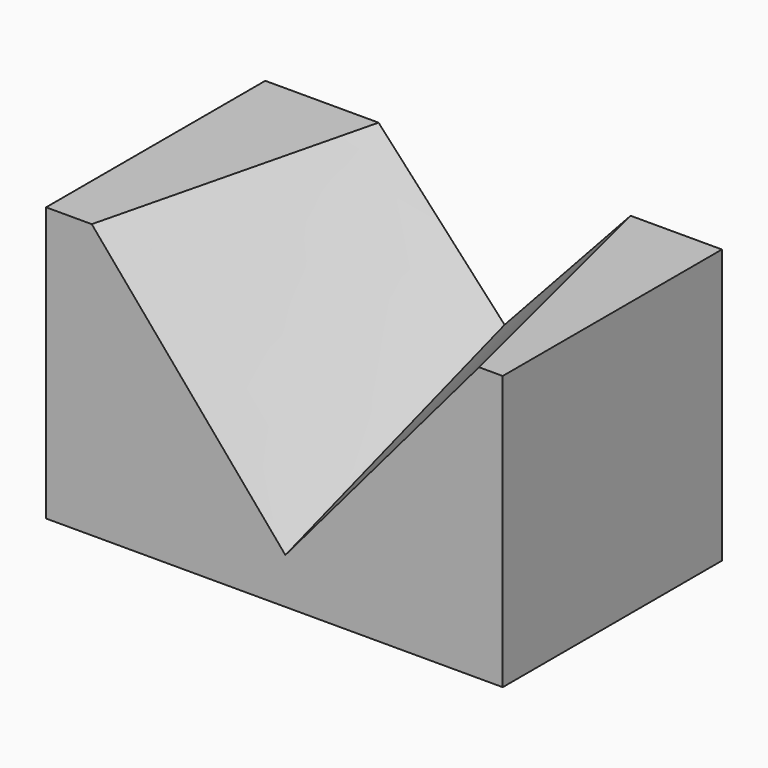
from build123d import *

# Parameters (mm, degrees)
F0_W     = 63.5
F0_H     = 38.1
F1_DEPTH = 38.1


with BuildPart() as f1:
    # F0 (on Front) → F1 (new body)
    with BuildSketch(Plane.XZ):
        with Locations((-1.526443, 19.05)):
            Rectangle(F0_W, F0_H)
    extrude(amount=F1_DEPTH)

    # F2 (on face) → F4 section 0
    with BuildSketch(Plane.XZ.offset(38.1)):
        Polygon((26.926443, 38.1), (-26.926443, 38.1), (0, 6.35), align=None)
    # F3 (on face) → F4 section 1
    with BuildSketch(Plane(origin=(0, 0, 0), x_dir=(-1, 0, 0), z_dir=(0, 1, 0))):
        Polygon((17.523557, 38.1), (-17.523557, 38.1), (0, 19.05), align=None)
    loft(mode=Mode.SUBTRACT)


solid = f1.part
